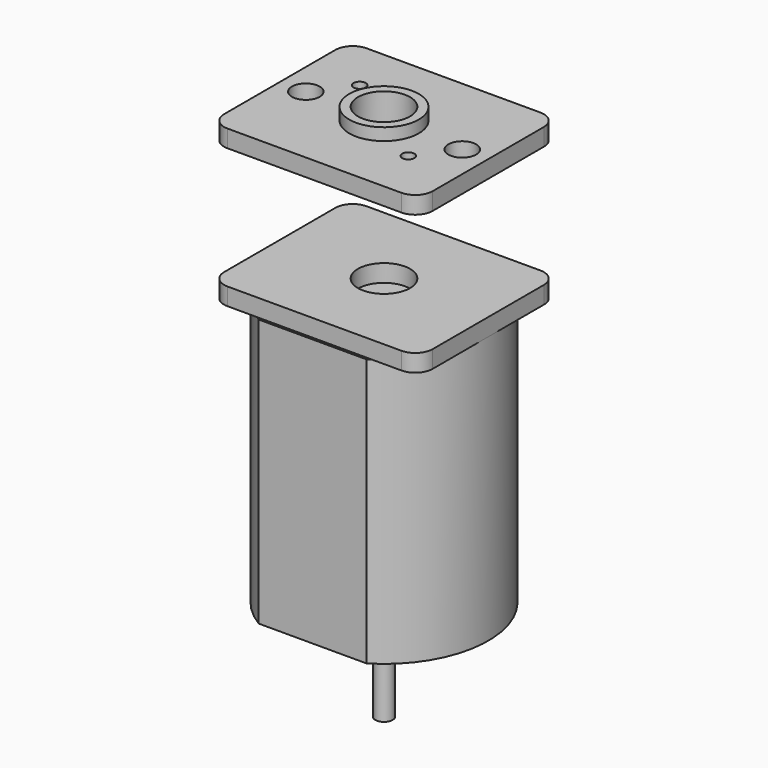
from build123d import *

# Parameters (mm, degrees)
F1_DEPTH  = 15.4
F2_R      = 2.5
F3_DEPTH  = 0.8
F4_R      = 0.5
F5_DEPTH  = 5
F6_R      = 1.5
F7_DEPTH  = 1
F9_R      = 0.35
F9_R_2    = 0.8
F9_R_3    = 1.5
F10_DEPTH = 1
F11_R     = 2
F11_R_2   = 1.5
F12_DEPTH = 0.7


with BuildPart() as f1:
    # F0 (on Top) → F1 (new body)
    with BuildSketch(Plane.XY):
        with BuildLine():
            Line((3.1, 5.13712), (-3.1, 5.13712))
            ThreePointArc((-3.1, 5.13712), (-6, 0), (-3.1, -5.13712))
            Line((-3.1, -5.13712), (3.1, -5.13712))
            ThreePointArc((3.1, -5.13712), (6, 0), (3.1, 5.13712))
        make_face()
    extrude(amount=-F1_DEPTH)

    # F2 (on face) → F3 (join)
    with BuildSketch(Plane(origin=(0, 0, -15.4), x_dir=(1, 0, 0), z_dir=(0, 0, -1))):
        Circle(F2_R)
    extrude(amount=F3_DEPTH)

    # F4 (on face) → F5 (join)
    with BuildSketch(Plane(origin=(0, 0, -16.2), x_dir=(1, 0, 0), z_dir=(0, 0, -1))):
        Circle(F4_R)
    extrude(amount=F5_DEPTH)


with BuildPart() as f7:
    # F6 (on face) → F7 (new body)
    with BuildSketch(Plane.XY):
        with BuildLine():
            ThreePointArc((-6, -4), (-5.707107, -4.707107), (-5, -5))
            Line((-5, -5), (5, -5))
            ThreePointArc((5, -5), (5.707107, -4.707107), (6, -4))
            Line((6, -4), (6, 4))
            ThreePointArc((6, 4), (5.707107, 4.707107), (5, 5))
            Line((5, 5), (-5, 5))
            ThreePointArc((-5, 5), (-5.707107, 4.707107), (-6, 4))
            Line((-6, 4), (-6, -4))
        make_face()
        Circle(F6_R, mode=Mode.SUBTRACT)
    extrude(amount=F7_DEPTH)


with BuildPart() as f10:
    # F9 (on offset) → F10 (new body)
    with BuildSketch(Plane.XY.offset(9)):
        with BuildLine():
            ThreePointArc((-6, -4), (-5.707107, -4.707107), (-5, -5))
            Line((-5, -5), (5, -5))
            ThreePointArc((5, -5), (5.707107, -4.707107), (6, -4))
            Line((6, -4), (6, 4))
            ThreePointArc((6, 4), (5.707107, 4.707107), (5, 5))
            Line((5, 5), (-5, 5))
            ThreePointArc((-5, 5), (-5.707107, 4.707107), (-6, 4))
            Line((-6, 4), (-6, -4))
        make_face()
        with Locations((3, -2)):
            Circle(F9_R, mode=Mode.SUBTRACT)
        with Locations((-4.5, 0)):
            Circle(F9_R_2, mode=Mode.SUBTRACT)
        with Locations((-2.999999, 1.999999)):
            Circle(F9_R, mode=Mode.SUBTRACT)
        Circle(F9_R_3, mode=Mode.SUBTRACT)
        with Locations((4.5, 0)):
            Circle(F9_R_2, mode=Mode.SUBTRACT)
    extrude(amount=-F10_DEPTH)

    # F11 (on face) → F12 (join)
    with BuildSketch(Plane.XY.offset(9)):
        Circle(F11_R)
        Circle(F11_R_2, mode=Mode.SUBTRACT)
    extrude(amount=F12_DEPTH)


solid = Compound([f1.part, f7.part, f10.part])
